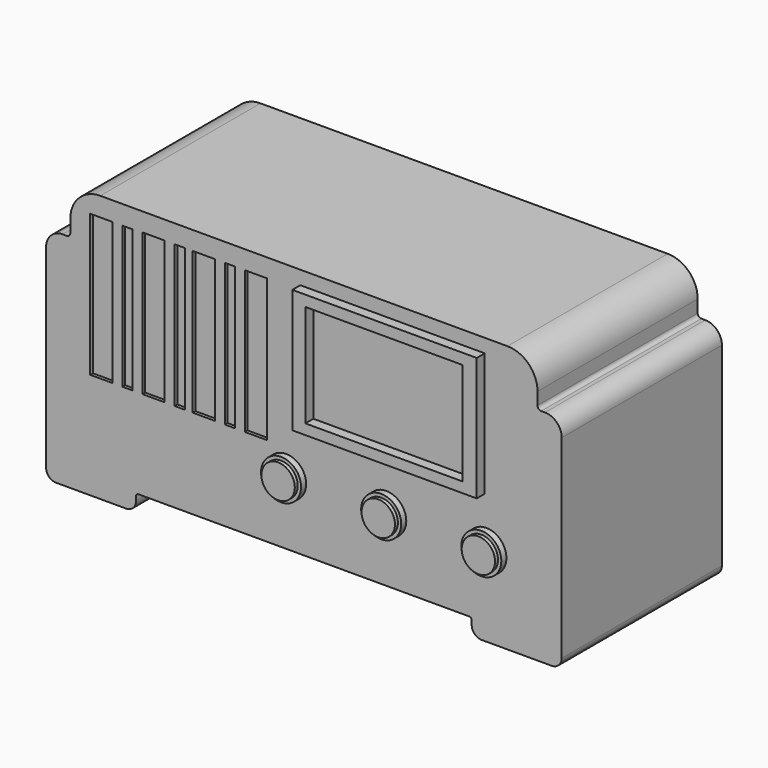
from build123d import *

# Parameters (mm, degrees)
F0_W      = 9.209789
F0_H      = 84.039282
F0_W_2    = 9.2202
F1_DEPTH  = 76.2
F2_R      = 6.35
F3_DEPTH  = 3.81
F2_R_2    = 7.62
F4_DEPTH  = 2.413
F2_W      = 8.4582
F2_H      = 53.975
F2_W_2    = 3.81
F2_H_2    = 54.199426
F5_DEPTH  = 1.27
F6_R      = 6.35
F7_R      = 11.43
F8_R      = 3.81
F9_R      = 3.81
F10_R     = 1.397
F11_R     = 0.889
F12_W     = 70.163437
F12_H     = 47.06084
F12_W_2   = 59.724488
F12_H_2   = 39.017717
F13_DEPTH = 3.81


with BuildPart() as f1:
    # F0 (on Front) → F1 (new body)
    with BuildSketch(Plane.XZ):
        Polygon((93.041204, 56.270593), (-84.758796, 56.270593), (-84.758796, 38.709875), (-84.758796, -45.329407), (-59.719693, -45.329407), (-59.719693, -38.99768), (67.996804, -38.99768), (67.996804, -45.329407), (93.041204, -45.329407), (93.041204, 38.709875), align=None)
        with Locations((-89.36369, -3.309766)):
            Rectangle(F0_W, F0_H)
        with Locations((97.651304, -3.309766)):
            Rectangle(F0_W_2, F0_H)
    extrude(amount=F1_DEPTH)

    # F2 (on face) → F3 (join)
    with BuildSketch(Plane.XZ.offset(76.2)):
        with Locations((-2.617028, -14.821997)):
            Circle(F2_R)
        with Locations((35.482972, -14.821997)):
            Circle(F2_R)
        with Locations((73.582972, -14.821997)):
            Circle(F2_R)
    extrude(amount=F3_DEPTH)

    # F2 (on face) → F5 (cut)
    with BuildSketch(Plane.XZ.offset(76.2)):
        with Locations((-72.931884, 22.031748)):
            Rectangle(F2_W, F2_H)
        with Locations((-62.987784, 22.031748)):
            Rectangle(F2_W_2, F2_H)
        with Locations((-53.043684, 22.143961)):
            Rectangle(F2_W, F2_H_2)
        with Locations((-43.099584, 22.143961)):
            Rectangle(F2_W_2, F2_H_2)
        with Locations((-33.948312, 22.143961)):
            Rectangle(F2_W, F2_H_2)
        with Locations((-24.004212, 22.143961)):
            Rectangle(F2_W_2, F2_H_2)
        with Locations((-14.060112, 22.143961)):
            Rectangle(F2_W, F2_H_2)
    extrude(amount=-F5_DEPTH, mode=Mode.SUBTRACT)

    # F6
    f6_edges = [f1.edges().sort_by_distance(p)[0] for p in [
        (102.261404, -38.1, 38.709875),
        (-93.968585, -38.1, 38.709875),
    ]]
    fillet(f6_edges, radius=F6_R)

    # F7
    f7_edges = [f1.edges().sort_by_distance(p)[0] for p in [
        (93.041204, -38.1, 56.270593),
        (-84.758796, -38.1, 56.270593),
    ]]
    fillet(f7_edges, radius=F7_R)

    # F8
    f8_edges = [f1.edges().sort_by_distance(p)[0] for p in [
        (67.996804, -38.1, -45.329407),
        (-59.719693, -38.1, -45.329407),
    ]]
    fillet(f8_edges, radius=F8_R)

    # F9
    f9_edges = [f1.edges().sort_by_distance(p)[0] for p in [
        (102.261404, -38.1, -45.329407),
        (-93.968585, -38.1, -45.329407),
    ]]
    fillet(f9_edges, radius=F9_R)

    # F10
    f10_edges = [f1.edges().sort_by_distance(p)[0] for p in [
        (93.041204, -38.1, 38.709875),
        (-84.758796, -38.1, 38.709875),
    ]]
    fillet(f10_edges, radius=F10_R)

    # F11
    f11_edges = [f1.edges().sort_by_distance(p)[0] for p in [
        (67.996804, -38.1, -38.99768),
        (-59.719693, -38.1, -38.99768),
    ]]
    fillet(f11_edges, radius=F11_R)

    # F12 (on face) → F13 (join)
    with BuildSketch(Plane.XZ.offset(76.2)):
        with Locations((37.880565, 27.53894)):
            Rectangle(F12_W, F12_H)
        with Locations((37.623871, 27.453377)):
            Rectangle(F12_W_2, F12_H_2, mode=Mode.SUBTRACT)
    extrude(amount=F13_DEPTH)


with BuildPart() as f4:
    # F2 (on face) → F4 (new body)
    with BuildSketch(Plane.XZ.offset(76.2)):
        with Locations((-2.617028, -14.821997)):
            Circle(F2_R_2)
        with Locations((-2.617028, -14.821997)):
            Circle(F2_R, mode=Mode.SUBTRACT)
        with Locations((35.482972, -14.821997)):
            Circle(F2_R_2)
        with Locations((35.482972, -14.821997)):
            Circle(F2_R, mode=Mode.SUBTRACT)
        with Locations((73.582972, -14.821997)):
            Circle(F2_R_2)
        with Locations((73.582972, -14.821997)):
            Circle(F2_R, mode=Mode.SUBTRACT)
    extrude(amount=F4_DEPTH)


solid = Compound([f1.part, f4.part])
